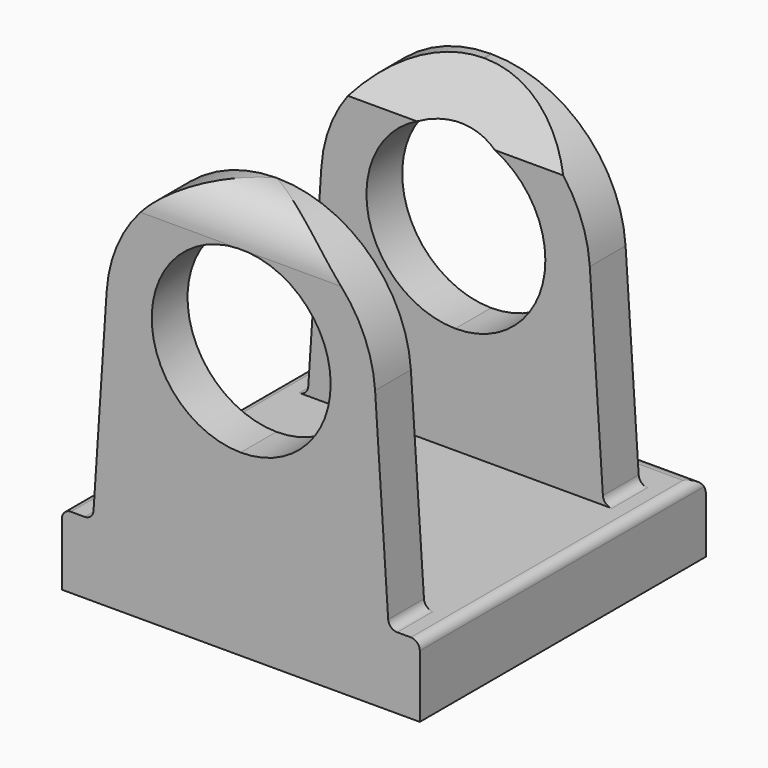
from build123d import *

# Parameters (mm, degrees)
F2_DEPTH      = 20
F2_DEPTH_BACK = 20
F3_START      = -25.4
F3_DEPTH      = 59.436


with BuildPart() as f2:
    # F0 (on Front) → F2 (new body, two sides)
    with BuildSketch(Plane.XZ) as f2_sk:
        with BuildLine():
            Line((0, -4), (20, -4))
            Line((20, -4), (20, 3))
            ThreePointArc((20, 3), (19.7071067812, 3.7071067812), (19, 4))
            Line((19, 4), (17.4655668493, 4))
            ThreePointArc((17.4655668493, 4), (16.7822617025, 4.269867083), (16.4677596893, 4.9338118471))
            Line((16.4677596893, 4.9338118471), (15.0045070864, 26.9928036795))
            ThreePointArc((15.0045070864, 26.9928036795), (10.2733190387, 36.9647668796), (0, 41))
            ThreePointArc((0, 41), (-10.2733190387, 36.9647668796), (-15.0045070864, 26.9928036795))
            Line((-15.0045070864, 26.9928036795), (-16.4677596893, 4.9338118471))
            ThreePointArc((-16.4677596893, 4.9338118471), (-16.7822617025, 4.269867083), (-17.4655668493, 4))
            Line((-17.4655668493, 4), (-19, 4))
            ThreePointArc((-19, 4), (-19.7071067812, 3.7071067812), (-20, 3))
            Line((-20, 3), (-20, -4))
            Line((-20, -4), (0, -4))
        make_face()
        with BuildLine():
            ThreePointArc((10.0373301632, 25.9999767743), (7.0863665619, 18.90694598), (-0.0248870067, 16.000170325))
            ThreePointArc((-0.0248870067, 16.000170325), (-7.0117062355, 33.0930075686), (10.0373301632, 25.9999767743))
        make_face(mode=Mode.SUBTRACT)
    extrude(amount=F2_DEPTH)
    extrude(f2_sk.sketch, amount=-F2_DEPTH_BACK)

    # F1 (on Right) → F3 (intersect)
    with BuildSketch(Plane.YZ.offset(F3_START)):
        with BuildLine():
            ThreePointArc((20, 2), (19.4142135624, 3.4142135624), (18, 4))
            Line((18, 4), (15, 4))
            Line((15, 4), (14, 4))
            Line((14, 4), (10, 4))
            Line((10, 4), (-15, 4))
            Line((-15, 4), (-20, 4))
            Line((-20, 4), (-20, -4))
            Line((-20, -4), (20, -4))
            Line((20, -4), (20, 2))
        make_face()
        Polygon((14, 4), (15, 4), (15, 41), (14.5, 41), (14, 41), (10, 35), (10, 4), align=None)
        with BuildLine():
            Line((-20, 4), (-15, 4))
            Line((-15, 4), (-15, 41))
            ThreePointArc((-15, 41), (-18.5355339059, 39.5355339059), (-20, 36))
            Line((-20, 36), (-20, 4))
        make_face()
    extrude(amount=F3_DEPTH, mode=Mode.INTERSECT)


solid = f2.part
